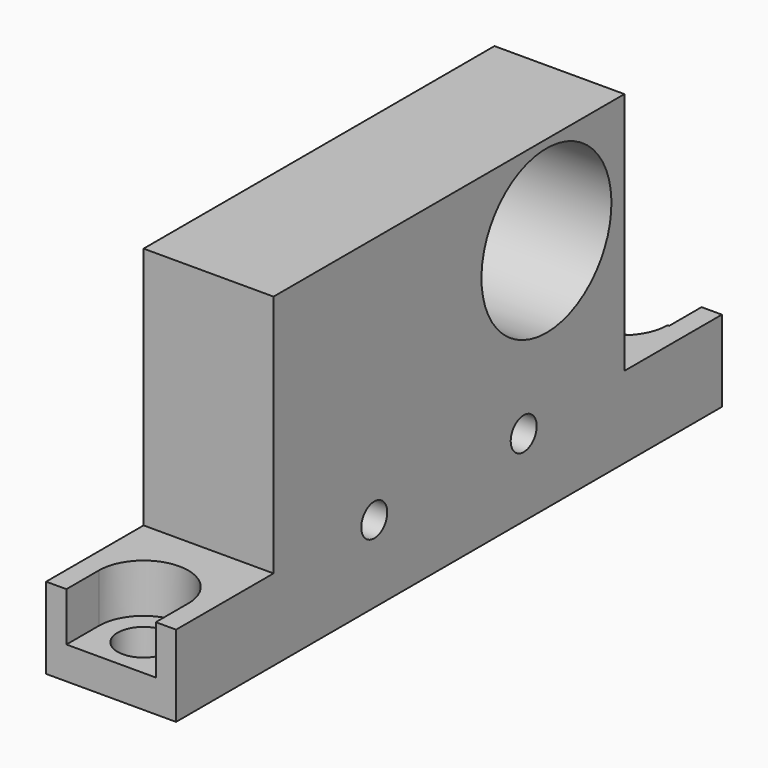
from build123d import *

# Parameters (mm, degrees)
CYLINDER033_R     = 1
CYLINDER033_DEPTH = 20
CYLINDER032_R     = 1
CYLINDER032_DEPTH = 20
CYLINDER012_R     = 5
CYLINDER012_DEPTH = 10
BOX003_W          = 8
BOX003_H          = 27
BOX003_DEPTH      = 20
BOX002_W          = 5.5
BOX002_H          = 5.5
BOX002_DEPTH      = 3
CYLINDER002_R     = 1.6
CYLINDER002_DEPTH = 5
CYLINDER003_R     = 2.75
CYLINDER003_DEPTH = 3
BOX001_W          = 5.5
BOX001_H          = 5.5
BOX001_DEPTH      = 3
CYLINDER_R        = 1.6
CYLINDER_DEPTH    = 5
CYLINDER001_R     = 2.75
CYLINDER001_DEPTH = 3
BOX_W             = 8
BOX_H             = 42
BOX_DEPTH         = 5


with BuildPart() as cylinder033:
    # Cylinder033 → Cylinder033 (new body)
    with BuildSketch(Plane(origin=(-15, 5.75, 9.75), x_dir=(0, 0, -1), z_dir=(1, 0, 0))):
        Circle(CYLINDER033_R)
    extrude(amount=CYLINDER033_DEPTH)


with BuildPart() as fusion020:
    # Cylinder032 → Cylinder032 (new body)
    with BuildSketch(Plane(origin=(-15, -5.75, 9.75), x_dir=(0, 0, -1), z_dir=(1, 0, 0))):
        Circle(CYLINDER032_R)
    extrude(amount=CYLINDER032_DEPTH)

    # Fusion020: union Cylinder033
    add(cylinder033.part)


with BuildPart() as cylinder012:
    # Cylinder012 → Cylinder012 (new body)
    with BuildSketch(Plane(origin=(-12.5, 7.5, 19.5), x_dir=(0, 0, -1), z_dir=(1, 0, 0))):
        Circle(CYLINDER012_R)
    extrude(amount=CYLINDER012_DEPTH)


with BuildPart() as cube003:
    # Box003 → Box003 (new body)
    with BuildSketch(Plane(origin=(-11.5, -13.5, 5), x_dir=(1, 0, 0), z_dir=(0, 0, 1))):
        with Locations((4, 13.5)):
            Rectangle(BOX003_W, BOX003_H)
    extrude(amount=BOX003_DEPTH)


with BuildPart() as cube002:
    # Box002 → Box002 (new body)
    with BuildSketch(Plane(origin=(-10.25, -24, 7), x_dir=(1, 0, 0), z_dir=(0, 0, 1))):
        with Locations((2.75, 2.75)):
            Rectangle(BOX002_W, BOX002_H)
    extrude(amount=BOX002_DEPTH)


with BuildPart() as cylinder002:
    # Cylinder002 → Cylinder002 (new body)
    with BuildSketch(Plane.XY):
        Circle(CYLINDER002_R)
    extrude(amount=CYLINDER002_DEPTH)


with BuildPart() as fusion003:
    # Cylinder003 → Cylinder003 (new body)
    with BuildSketch(Plane.XY.offset(2)):
        Circle(CYLINDER003_R)
    extrude(amount=CYLINDER003_DEPTH)

    # Fusion001: union Cylinder002
    add(cylinder002.part)


with BuildPart() as fusion003_1:
    # Fusion001 placement: moved
    add(fusion003.part.moved(Location((-7.5, -18.5, 5))))

    # Fusion003: union Cube002
    add(cube002.part)


with BuildPart() as cube001:
    # Box001 → Box001 (new body)
    with BuildSketch(Plane(origin=(-10.25, 18.5, 7), x_dir=(1, 0, 0), z_dir=(0, 0, 1))):
        with Locations((2.75, 2.75)):
            Rectangle(BOX001_W, BOX001_H)
    extrude(amount=BOX001_DEPTH)


with BuildPart() as cylinder:
    # Cylinder → Cylinder (new body)
    with BuildSketch(Plane.XY):
        Circle(CYLINDER_R)
    extrude(amount=CYLINDER_DEPTH)


with BuildPart() as fusion004:
    # Cylinder001 → Cylinder001 (new body)
    with BuildSketch(Plane.XY.offset(2)):
        Circle(CYLINDER001_R)
    extrude(amount=CYLINDER001_DEPTH)

    # Fusion: union Cylinder
    add(cylinder.part)


with BuildPart() as fusion004_1:
    # Fusion placement: moved
    add(fusion004.part.moved(Location((-7.6, 18.5, 5))))

    # Fusion002: union Cube001
    add(cube001.part)

    # Fusion004: union Fusion003
    add(fusion003_1.part)


with BuildPart() as holder:
    # Box → Box (new body)
    with BuildSketch(Plane(origin=(-11.5, -21, 5), x_dir=(1, 0, 0), z_dir=(0, 0, 1))):
        with Locations((4, 21)):
            Rectangle(BOX_W, BOX_H)
    extrude(amount=BOX_DEPTH)

    # Cut: cut Fusion004
    add(fusion004_1.part, mode=Mode.SUBTRACT)

    # Fusion005: union Cube003
    add(cube003.part)

    # Cut002: cut Cylinder012
    add(cylinder012.part, mode=Mode.SUBTRACT)

    # Cut009: cut Fusion020
    add(fusion020.part, mode=Mode.SUBTRACT)


with BuildPart() as holder_1:
    # Cut009 placement: moved
    add(holder.part.moved(Location((0, 0, 1))))


solid = holder_1.part
